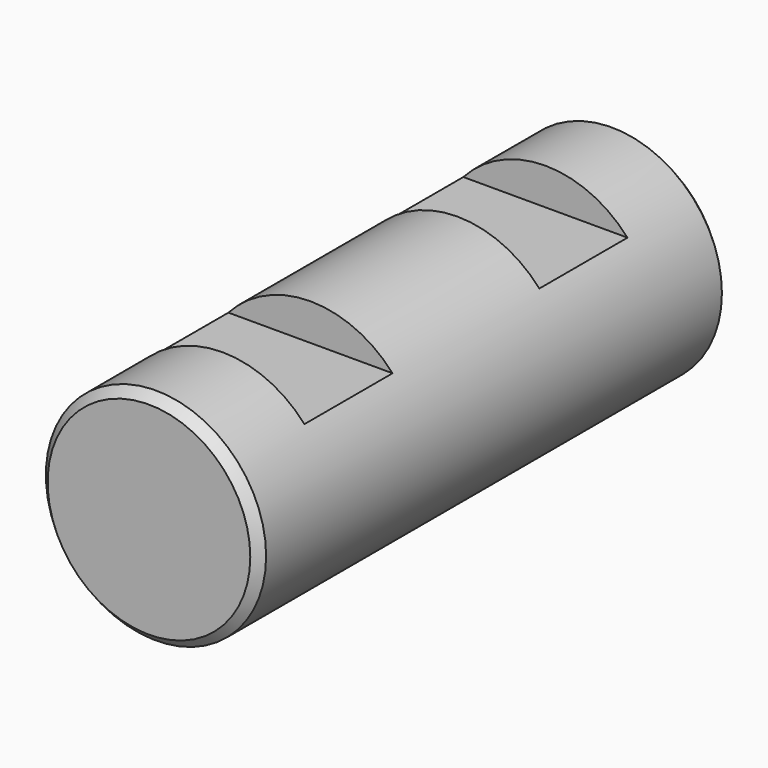
from build123d import *

# Parameters (mm, degrees)
F0_R     = 9.525
F1_DEPTH = 50.8
F2_SIZE  = 0.762
F3_W     = 9.525
F3_H     = 5.747142
F4_DEPTH = 12.7


with BuildPart() as f1:
    # F0 (on Front) → F1 (new body)
    with BuildSketch(Plane.XZ):
        Circle(F0_R)
    extrude(amount=-F1_DEPTH)

    # F2
    f2_edges = [f1.edges().sort_by_distance(p)[0] for p in [
        (-9.525, 0, 0),
        (-9.525, 50.8, 0),
    ]]
    chamfer(f2_edges, length=F2_SIZE)

    # F3 (on Right) → F4 (cut, symmetric)
    with BuildSketch(Plane.YZ):
        with Locations((12.7, 9.223571)):
            Rectangle(F3_W, F3_H)
        with Locations((38.1, 9.223571)):
            Rectangle(F3_W, F3_H)
    extrude(amount=F4_DEPTH, both=True, mode=Mode.SUBTRACT)


solid = f1.part
